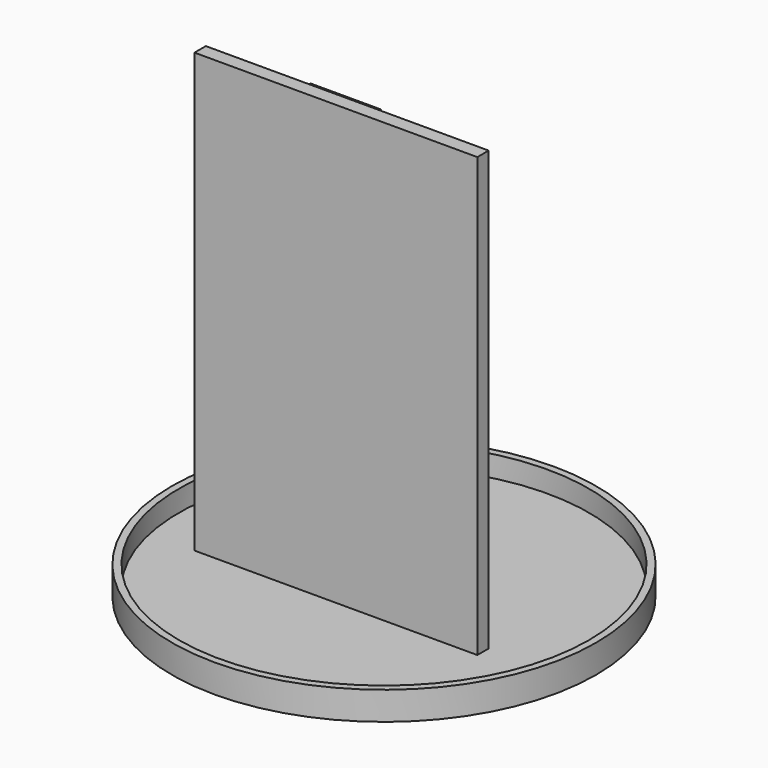
from build123d import *

# Parameters (mm, degrees)
F0_R     = 75
F0_R_2   = 72.5
F1_DEPTH = 10
F2_DEPTH = 2.5
F3_W     = 100
F3_H     = 5
F4_DEPTH = 155
F5_W     = 25
F5_H     = 20
F6_DEPTH = 2.5
F7_W     = 25
F7_H     = 20
F8_DEPTH = 2.5


with BuildPart() as f1:
    # F0 (on Top) → F1 (new body)
    with BuildSketch(Plane.XY):
        Circle(F0_R)
        Circle(F0_R_2, mode=Mode.SUBTRACT)
    extrude(amount=F1_DEPTH)

    # F0 (on Top) → F2 (join)
    with BuildSketch(Plane.XY):
        Circle(F0_R_2)
    extrude(amount=F2_DEPTH)

    # F3 (on face) → F4 (join)
    with BuildSketch(Plane.XY.offset(2.5)):
        with Locations((-5, -12.5)):
            Rectangle(F3_W, F3_H)
    extrude(amount=F4_DEPTH)

    # F5 (on face) → F6 (join)
    with BuildSketch(Plane(origin=(0, -10, 0), x_dir=(-1, 0, 0), z_dir=(0, 1, 0))):
        with Locations((7.5, 32.5)):
            Rectangle(F5_W, F5_H)
    extrude(amount=F6_DEPTH)

    # F7 (on face) → F8 (join)
    with BuildSketch(Plane(origin=(0, -10, 0), x_dir=(-1, 0, 0), z_dir=(0, 1, 0))):
        with Locations((7.5, 146.25)):
            Rectangle(F7_W, F7_H)
    extrude(amount=F8_DEPTH)


solid = f1.part
